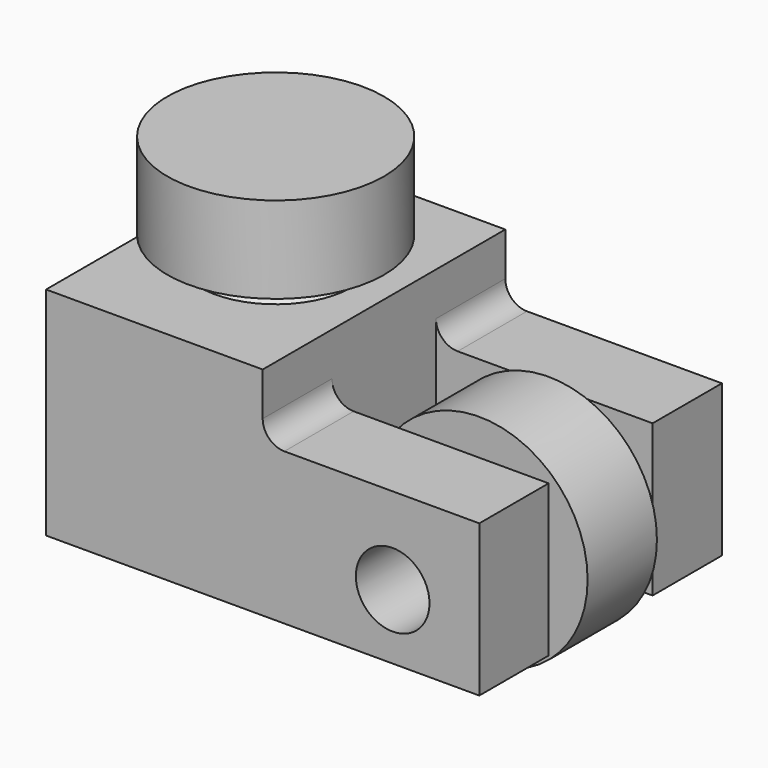
from build123d import *

# Parameters (mm, degrees)
CYLINDER082_R     = 5
CYLINDER082_DEPTH = 4
CYLINDER083_R     = 5
CYLINDER083_DEPTH = 4
CYLINDER084_R     = 1.7
CYLINDER084_DEPTH = 18
BOX002_W          = 11
BOX002_H          = 6
BOX002_DEPTH      = 10
BOX001_W          = 10
BOX001_H          = 14
BOX001_DEPTH      = 7
BOX003_W          = 10
BOX003_H          = 10
BOX003_DEPTH      = 10
CYLINDER_R        = 1.7
CYLINDER_DEPTH    = 14
BOX_W             = 10
BOX_H             = 14
BOX_DEPTH         = 10
CHAMFER_SIZE      = 1.5
FILLET_R          = 1


with BuildPart() as f_623_bearing:
    # Cylinder082 → Cylinder082 (new body)
    with BuildSketch(Plane.XY.offset(12)):
        Circle(CYLINDER082_R)
    extrude(amount=CYLINDER082_DEPTH)


with BuildPart() as f_623_bearing001:
    # Cylinder083 → Cylinder083 (new body)
    with BuildSketch(Plane(origin=(11, 2, 4), x_dir=(1, 0, 0), z_dir=(0, -1, 0))):
        Circle(CYLINDER083_R)
    extrude(amount=CYLINDER083_DEPTH)


with BuildPart() as screw:
    # Cylinder084 → Cylinder084 (new body)
    with BuildSketch(Plane(origin=(11, 8, 4), x_dir=(1, 0, 0), z_dir=(0, -1, 0))):
        Circle(CYLINDER084_R)
    extrude(amount=CYLINDER084_DEPTH)


with BuildPart() as cube002:
    # Box002 → Box002 (new body)
    with BuildSketch(Plane(origin=(5, -3, 0), x_dir=(1, 0, 0), z_dir=(0, 0, 1))):
        with Locations((5.5, 3)):
            Rectangle(BOX002_W, BOX002_H)
    extrude(amount=BOX002_DEPTH)


with BuildPart() as cut:
    # Box001 → Box001 (new body)
    with BuildSketch(Plane(origin=(5, -7, 1), x_dir=(1, 0, 0), z_dir=(0, 0, 1))):
        with Locations((5, 7)):
            Rectangle(BOX001_W, BOX001_H)
    extrude(amount=BOX001_DEPTH)

    # Cut: cut Cube002
    add(cube002.part, mode=Mode.SUBTRACT)


with BuildPart() as cube003:
    # Box003 → Box003 (new body)
    with BuildSketch(Plane(origin=(5, -5, -9), x_dir=(1, 0, 0), z_dir=(0, 0, 1))):
        with Locations((5, 5)):
            Rectangle(BOX003_W, BOX003_H)
    extrude(amount=BOX003_DEPTH)


with BuildPart() as cone002:
    # Cone002 → Cone002 (revolve)
    with BuildSketch(Plane(origin=(11, 2, 4), x_dir=(1, 0, 0), z_dir=(0, 0, 1))):
        Polygon((0, 0), (2.5, 0), (3.5, 1), (0, 1), align=None)
    revolve(axis=Axis((11, 2, 4), (0, 1, 0)))


with BuildPart() as cut002:
    # Cone001 → Cone001 (revolve)
    with BuildSketch(Plane(origin=(11, -2, 4), x_dir=(1, 0, 0), z_dir=(0, 0, -1))):
        Polygon((0, 0), (2.5, 0), (3.5, 1), (0, 1), align=None)
    revolve(axis=Axis((11, -2, 4), (0, -1, 0)))

    # Fusion: union Cone002
    add(cone002.part)

    # Cut001: cut Cube003
    add(cube003.part, mode=Mode.SUBTRACT)

    # Fusion001: union Cut
    add(cut.part)

    # Cut002: cut screw
    add(screw.part, mode=Mode.SUBTRACT)


with BuildPart() as cylinder:
    # Cylinder → Cylinder (new body)
    with BuildSketch(Plane.XY):
        Circle(CYLINDER_R)
    extrude(amount=CYLINDER_DEPTH)


with BuildPart() as cone:
    # Cone → Cone (revolve)
    with BuildSketch(Plane(origin=(0, 0, 12), x_dir=(1, 0, 0), z_dir=(0, 1, 0))):
        Polygon((0, 0), (2.5, 0), (3.5, 1), (0, 1), align=None)
    revolve(axis=Axis((0, 0, 12), (0, 0, -1)))


with BuildPart() as fillet_body:
    # Box → Box (new body)
    with BuildSketch(Plane(origin=(-5, -7, 1), x_dir=(1, 0, 0), z_dir=(0, 0, 1))):
        with Locations((5, 7)):
            Rectangle(BOX_W, BOX_H)
    extrude(amount=BOX_DEPTH)

    # Fusion002: union Cone
    add(cone.part)

    # Cut003: cut Cylinder
    add(cylinder.part, mode=Mode.SUBTRACT)

    # Fusion003: union Cut002
    add(cut002.part)

    # Chamfer
    chamfer_edges = [fillet_body.edges().sort_by_distance(p)[0] for p in [
        (-1.7, 0, 1),
    ]]
    chamfer(chamfer_edges, length=CHAMFER_SIZE)

    # Fillet
    fillet_edges = [fillet_body.edges().sort_by_distance(p)[0] for p in [
        (5, 5, 8),
        (5, -5, 8),
    ]]
    fillet(fillet_edges, radius=FILLET_R)


solid = Compound([f_623_bearing.part, f_623_bearing001.part, fillet_body.part])
